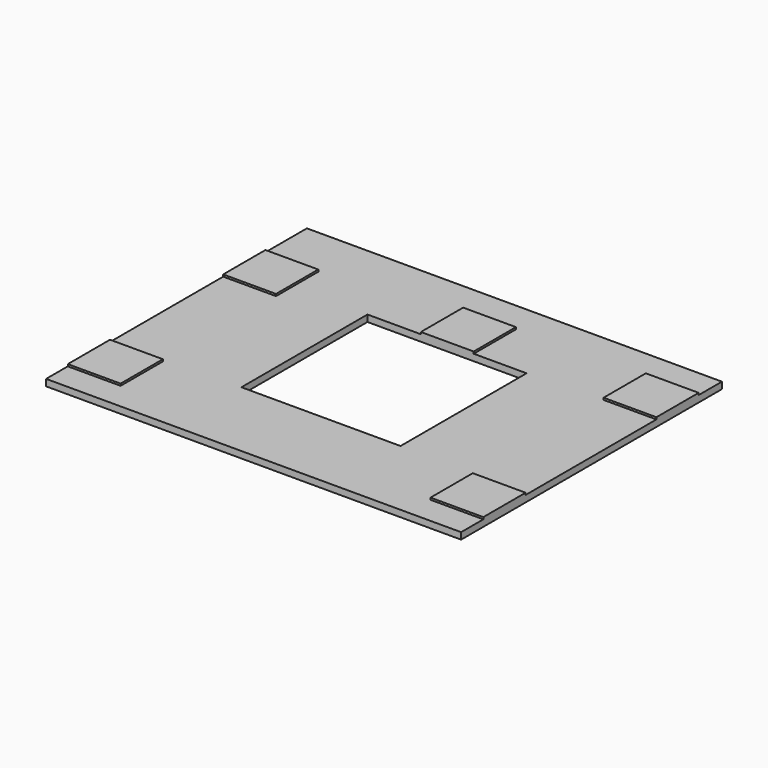
from build123d import *

# Parameters (mm, degrees)
F0_W     = 399.155342
F0_H     = 313.535798
F0_W_2   = 153.0096
F0_H_2   = 151.4856
F1_DEPTH = 6.35
F2_W     = 50.8
F2_H     = 50.8
F3_DEPTH = 1.905


with BuildPart() as f1:
    # F0 (on Top) → F1 (new body)
    with BuildSketch(Plane.XY):
        Rectangle(F0_W, F0_H)
        Rectangle(F0_W_2, F0_H_2, mode=Mode.SUBTRACT)
    extrude(amount=F1_DEPTH)

    # F2 (on face) → F3 (join)
    with BuildSketch(Plane.XY.offset(6.35)):
        with Locations((-174.177671, -105.287043)):
            Rectangle(F2_W, F2_H)
        with Locations((-174.177671, 81.533401)):
            Rectangle(F2_W, F2_H)
        with Locations((0.267005, 101.1428)):
            Rectangle(F2_W, F2_H)
        with Locations((174.177671, 103.394294)):
            Rectangle(F2_W, F2_H)
        with Locations((174.177671, -104.648051)):
            Rectangle(F2_W, F2_H)
    extrude(amount=F3_DEPTH)


solid = f1.part
